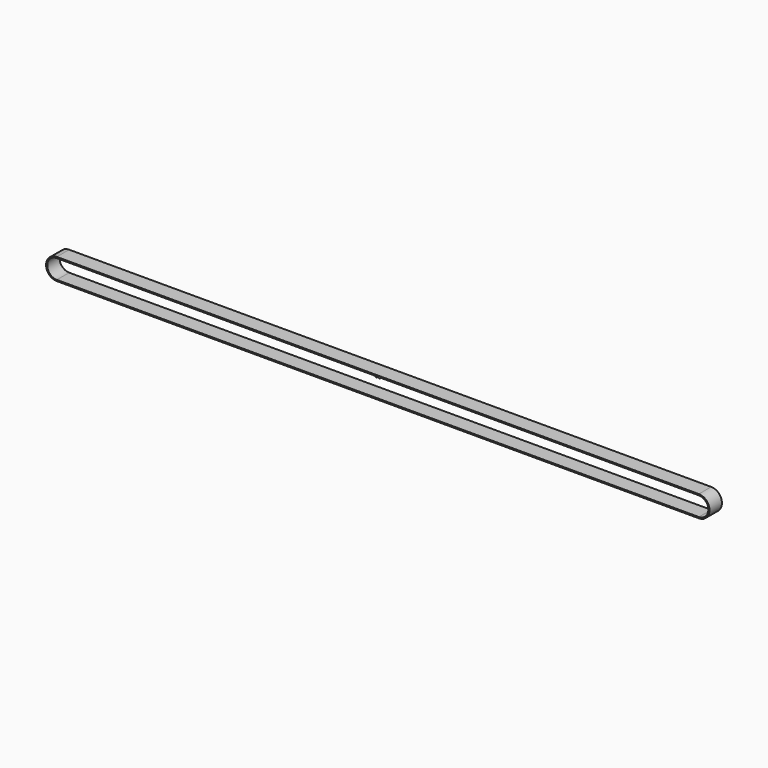
from build123d import *

# Parameters (mm, degrees)
F1_DEPTH = 12.4968
F3_DEPTH = 12.4968


with BuildPart() as f1:
    # F0 (on Front) → F1 (new body, symmetric)
    with BuildSketch(Plane.XZ):
        with BuildLine():
            Line((517.3345, 17.2212), (-517.3345, 17.2212))
            ThreePointArc((-517.3345, 17.2212), (-534.5557, 0), (-517.3345, -17.2212))
            Line((-517.3345, -17.2212), (517.3345, -17.2212))
            ThreePointArc((517.3345, -17.2212), (534.5557, 0), (517.3345, 17.2212))
        make_face()
        with BuildLine():
            Line((517.3345, -15.3416), (-517.3345, -15.3416))
            ThreePointArc((-517.3345, -15.3416), (-532.6761, 0), (-517.3345, 15.3416))
            Line((-517.3345, 15.3416), (517.3345, 15.3416))
            ThreePointArc((517.3345, 15.3416), (532.6761, 0), (517.3345, -15.3416))
        make_face(mode=Mode.SUBTRACT)
    extrude(amount=F1_DEPTH, both=True)

    # F2 (on Front) → F3 (join, symmetric)
    with BuildSketch(Plane.XZ):
        with BuildLine():
            ThreePointArc((-4.477058, 15.3416), (-4.147963, 15.22121), (-3.974239, 14.916879))
            ThreePointArc((-3.974239, 14.916879), (-3.889275, 14.567837), (-3.755919, 14.234273))
            ThreePointArc((-3.755919, 14.234273), (-2.5, 13.4116), (-1.244081, 14.234273))
            ThreePointArc((-1.244081, 14.234273), (-1.110725, 14.567837), (-1.025761, 14.916879))
            ThreePointArc((-1.025761, 14.916879), (-0.852037, 15.22121), (-0.522942, 15.3416))
            Line((-0.522942, 15.3416), (0.522942, 15.3416))
            ThreePointArc((0.522942, 15.3416), (0.852037, 15.22121), (1.025761, 14.916879))
            ThreePointArc((1.025761, 14.916879), (1.110725, 14.567837), (1.244081, 14.234273))
            ThreePointArc((1.244081, 14.234273), (2.5, 13.4116), (3.755919, 14.234273))
            ThreePointArc((3.755919, 14.234273), (3.889275, 14.567837), (3.974239, 14.916879))
            ThreePointArc((3.974239, 14.916879), (4.147963, 15.22121), (4.477058, 15.3416))
            Line((4.477058, 15.3416), (4.477058, 15.8496))
            Line((4.477058, 15.8496), (-4.477058, 15.8496))
            Line((-4.477058, 15.8496), (-4.477058, 15.3416))
        make_face()
    extrude(amount=F3_DEPTH, both=True)


solid = f1.part
